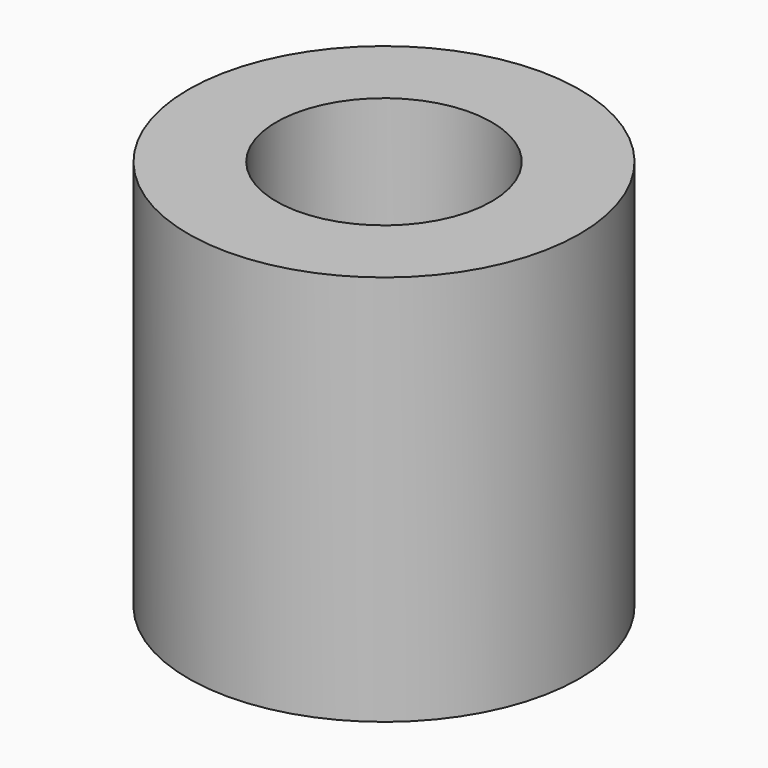
from build123d import *

# Parameters (mm, degrees)
F0_R     = 5
F0_R_2   = 2.75
F1_DEPTH = 10


with BuildPart() as f1:
    # F0 (on Top) → F1 (new body)
    with BuildSketch(Plane.XY):
        Circle(F0_R)
        Circle(F0_R_2, mode=Mode.SUBTRACT)
        Circle(F0_R)
        Circle(F0_R_2, mode=Mode.SUBTRACT)
    extrude(amount=F1_DEPTH)


solid = f1.part
